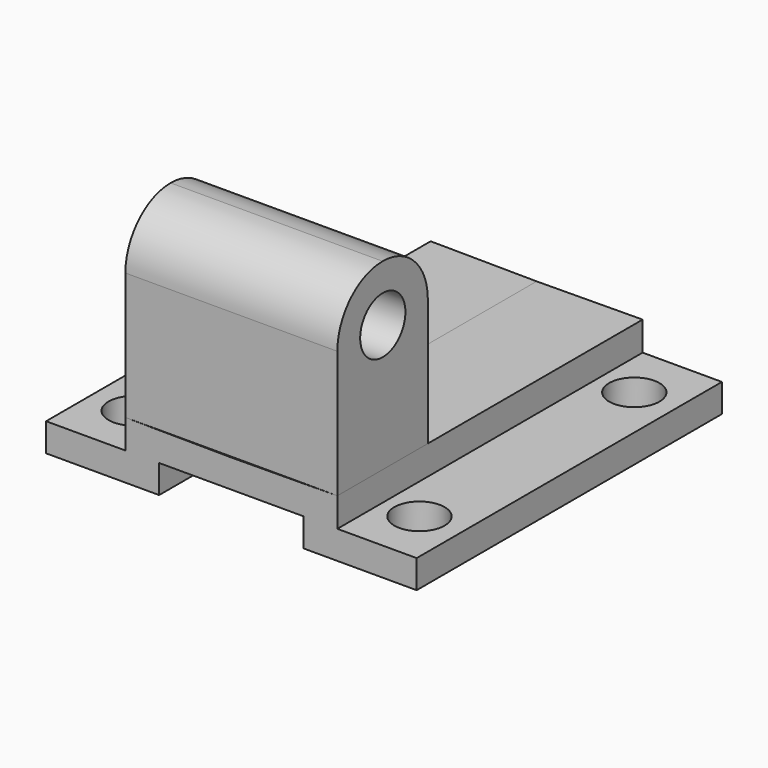
from build123d import *

# Parameters (mm, degrees)
F1_DEPTH = 67.5
F3_R     = 10
F4_DEPTH = 74.997747
F2_R     = 8.899944
F5_DEPTH = 10


with BuildPart() as f1:
    # F0 (on Front) → F1 (new body, symmetric)
    with BuildSketch(Plane.XZ):
        Polygon((0, 10), (0, 20), (-37.498873, 20.290688), (-37.498873, 10), (-65.55131, 10), (-65.55131, 0), (-25.55131, 0), (-25.55131, 10), align=None)
        Polygon((37.498873, 20.290688), (0, 20), (0, 10), (25.55131, 10), (25.55131, 0), (65.55131, 0), (65.55131, 10), (37.498873, 10), align=None)
    extrude(amount=F1_DEPTH, both=True)

    # F3 (on face) → F4 (join, through all)
    with BuildSketch(Plane.YZ.offset(37.498873)):
        with BuildLine():
            Line((-67.5, 65.290688), (-67.5, 20.290688))
            Line((-67.5, 20.290688), (-27.5, 20.290688))
            Line((-27.5, 20.290688), (-27.5, 65.290688))
            ThreePointArc((-27.5, 65.290688), (-33.363537, 79.39995), (-47.5, 85.197598))
            ThreePointArc((-47.5, 85.197598), (-61.636463, 79.39995), (-67.5, 65.290688))
        make_face()
        with Locations((-47.407126, 65.290688)):
            Circle(F3_R, mode=Mode.SUBTRACT)
    extrude(amount=-F4_DEPTH)

    # F2 (on Top) → F5 (cut)
    with BuildSketch(Plane.XY):
        with Locations((-50.55131, 47.5)):
            Circle(F2_R)
        with Locations((-50.55131, -47.5)):
            Circle(F2_R)
        with Locations((50.55131, -47.5)):
            Circle(F2_R)
        with Locations((50.55131, 47.5)):
            Circle(F2_R)
    extrude(amount=F5_DEPTH, mode=Mode.SUBTRACT)


solid = f1.part
